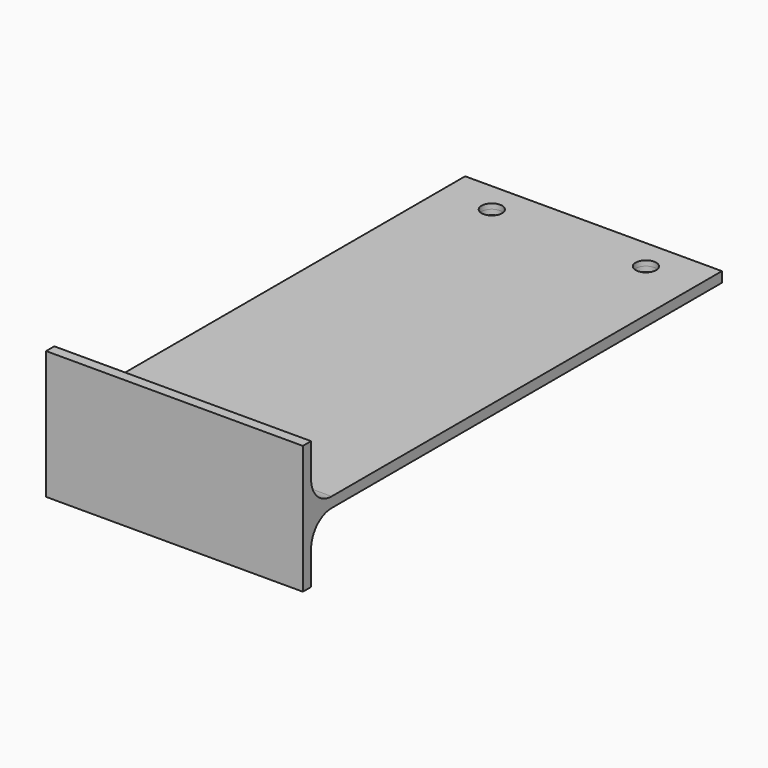
from build123d import *

# Parameters (mm, degrees)
PAD_DEPTH            = 25
FILLET_R             = 5
SKETCH001_R          = 2
POCKET_DEPTH         = 12.501
POCKET_DEPTH_BACK    = -12.501
BODY_PLACEMENT_ANGLE = 270


with BuildPart() as part:
    # Sketch → Pad (new body, symmetric)
    with BuildSketch(Plane.XY):
        Polygon((-12.5, 1), (-12.5, -1), (12.5, -1), (12.5, 1), (1, 1), (1, 101), (-1, 101), (-1, 1), align=None)
    extrude(amount=PAD_DEPTH, both=True)

    # Fillet
    fillet_edges = [part.edges().sort_by_distance(p)[0] for p in [
        (-1, 1, 0),
        (1, 1, 0),
    ]]
    fillet(fillet_edges, radius=FILLET_R)

    # Sketch001 → Pocket (cut, two sides)
    with BuildSketch(Plane.YZ) as pocket_sk:
        with Locations((95, 15)):
            Circle(SKETCH001_R)
        with Locations((95, -15)):
            Circle(SKETCH001_R)
    extrude(amount=-POCKET_DEPTH, mode=Mode.SUBTRACT)
    extrude(pocket_sk.sketch, amount=-POCKET_DEPTH_BACK, mode=Mode.SUBTRACT)


with BuildPart() as part_1:
    # Body placement: moved
    add(part.part.rotate(Axis((0, 0, 0), (0, 1, 0)), BODY_PLACEMENT_ANGLE))


solid = part_1.part
